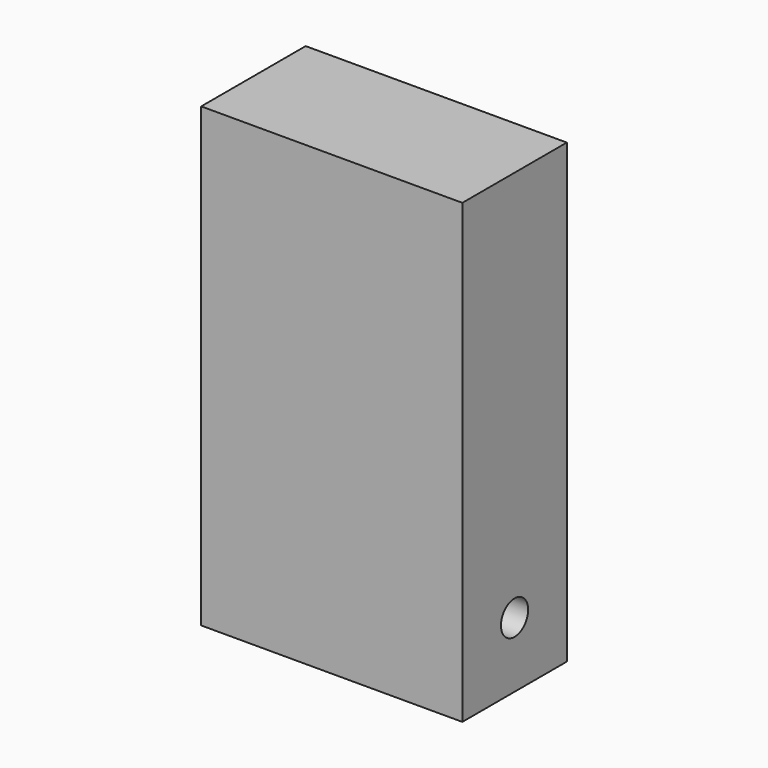
from build123d import *

# Parameters (mm, degrees)
F0_W     = 50.8
F0_H     = 88.9
F1_DEPTH = 25.4
F2_R     = 3.302
F3_DEPTH = 50.801


with BuildPart() as f1:
    # F0 (on Front) → F1 (new body)
    with BuildSketch(Plane.XZ):
        Rectangle(F0_W, F0_H)
    extrude(amount=F1_DEPTH)

    # F2 (on face) → F3 (cut, through all)
    with BuildSketch(Plane.YZ.offset(25.4)):
        with Locations((-12.7, -31.75)):
            Circle(F2_R)
    extrude(amount=-F3_DEPTH, mode=Mode.SUBTRACT)


solid = f1.part
